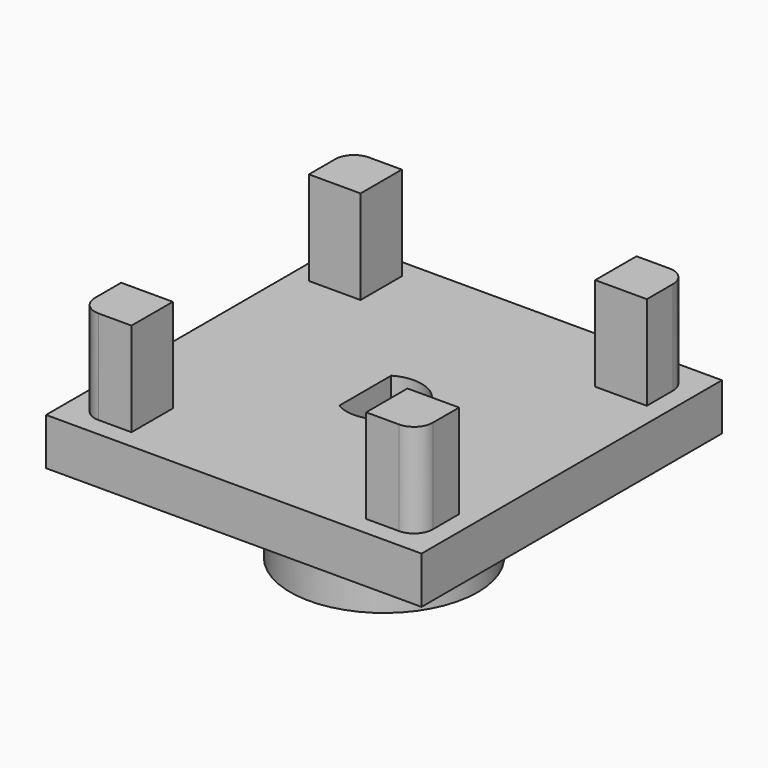
from build123d import *

# Parameters (mm, degrees)
EXTRUDE002_DEPTH = 20
SKETCH003_R      = 10
EXTRUDE_DEPTH    = 10
SKETCH_W         = 40
SKETCH_H         = 40
PAD_DEPTH        = 5
PAD001_DEPTH     = 10


with BuildPart() as extrude002:
    # Sketch008 (on Face1 of CopyExtrude) → Extrude002 (new body)
    with BuildSketch(Plane(origin=(0, 0, -10), x_dir=(1, 0, 0), z_dir=(0, 0, -1))):
        with BuildLine():
            ThreePointArc((18, 16.535898), (24, 20), (18, 23.464102))
            Line((18, 23.464102), (18, 16.535898))
        make_face()
    extrude(amount=-EXTRUDE002_DEPTH)


with BuildPart() as valec:
    # Sketch003 → Extrude (new body)
    with BuildSketch(Plane(origin=(0, 0, 0), x_dir=(1, 0, 0), z_dir=(0, 0, -1))):
        with Locations((20, 20)):
            Circle(SKETCH003_R)
    extrude(amount=EXTRUDE_DEPTH)


with BuildPart() as obj1:
    # Sketch → Pad (new body)
    with BuildSketch(Plane.XY):
        with Locations((20, -20)):
            Rectangle(SKETCH_W, SKETCH_H)
    extrude(amount=PAD_DEPTH)

    # Sketch001 (on Face6 of Pad) → Pad001 (join)
    with BuildSketch(Plane.XY.offset(5)):
        with BuildLine():
            Line((4, -2), (7.5, -2))
            Line((7.5, -2), (7.5, -7.5))
            Line((7.5, -7.5), (2, -7.5))
            Line((2, -7.5), (2, -4))
            ThreePointArc((4, -2), (2.585786, -2.585786), (2, -4))
        make_face()
        with BuildLine():
            Line((38, -7.5), (38, -4))
            ThreePointArc((38, -4), (37.414214, -2.585786), (36, -2))
            Line((36, -2), (32.5, -2))
            Line((32.5, -2), (32.5, -7.5))
            Line((32.5, -7.5), (38, -7.5))
        make_face()
        with BuildLine():
            Line((7.5, -32.5), (2, -32.5))
            Line((2, -32.5), (2, -36))
            ThreePointArc((2, -36), (2.585786, -37.414214), (4, -38))
            Line((4, -38), (7.5, -38))
            Line((7.5, -38), (7.5, -32.5))
        make_face()
        with BuildLine():
            Line((32.5, -38), (32.5, -32.5))
            Line((32.5, -32.5), (38, -32.5))
            Line((38, -32.5), (38, -36))
            ThreePointArc((36, -38), (37.414214, -37.414214), (38, -36))
            Line((36, -38), (32.5, -38))
        make_face()
    extrude(amount=PAD001_DEPTH)

    # Fusion: union Valec
    add(valec.part)

    # Cut: cut Extrude002
    add(extrude002.part, mode=Mode.SUBTRACT)


solid = obj1.part
